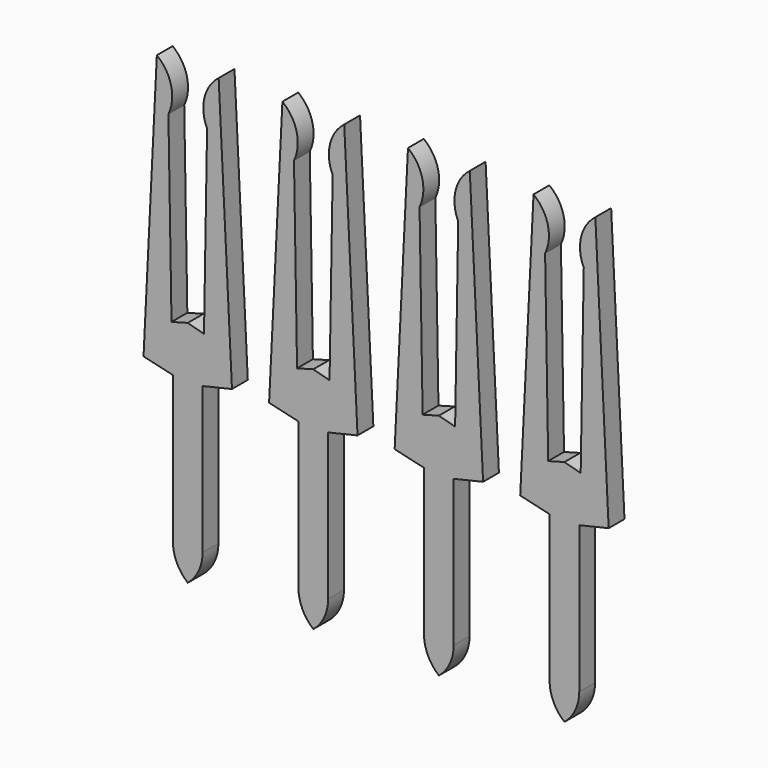
from build123d import *

# Parameters (mm, degrees)
EXTRUDE009_DEPTH                     = 0.4
EXTRUDE009_ONTO_SKETCH009_ROLL_ANGLE = 90
ARRAY002_X_COUNT                     = 4
ARRAY002_X_PITCH                     = 2.54


with BuildPart() as obj1:
    # Sketch009 as drawn → Extrude009 (new)
    with BuildSketch(Plane.XY):
        with BuildLine():
            Line((-0.62527, 6.191788), (-0.894618, 0.740609))
            Line((-0.894618, 0.740609), (-0.3, 0.601222))
            Line((-0.3, 0.601222), (-0.3, -2.364495))
            ThreePointArc((-0.3, -2.364495), (-0.221231, -2.715873), (0, -3))
            Line((0, -3), (0, 1.62804))
            Line((0, 1.62804), (-0.328584, 1.538486))
            Line((-0.328584, 1.538486), (-0.391, 5.216604))
            ThreePointArc((-0.391, 5.216604), (-0.336055, 5.745535), (-0.62527, 6.191788))
        make_face()
    extrude(amount=-EXTRUDE009_DEPTH)


with BuildPart() as obj1_1:
    # Extrude009 onto Sketch009 roll: moved
    add(obj1.part.rotate(Axis((0, 0, 0), (1, 0, 0)), EXTRUDE009_ONTO_SKETCH009_ROLL_ANGLE))


with BuildPart() as obj1_2:
    # Extrude009 onto Sketch009 placement: moved
    add(obj1_1.part.moved(Location((0, -0.2, 0))))


with BuildPart() as pins001:
    # Part__Mirroring001: instance of obj1
    add(obj1_2.part.mirror(Plane(origin=(0, 0, 0), x_dir=(0, -1, 0), z_dir=(1, 0, 0))))

    # Fusion003: union obj1
    add(obj1_2.part)

    # Array002 X: pins001 ×4


with BuildPart() as pins001_1:
    add(pins001.part)
    with Locations(*[(i * ARRAY002_X_PITCH, 0, 0) for i in range(1, ARRAY002_X_COUNT)]):
        add(pins001.part)


solid = pins001_1.part
